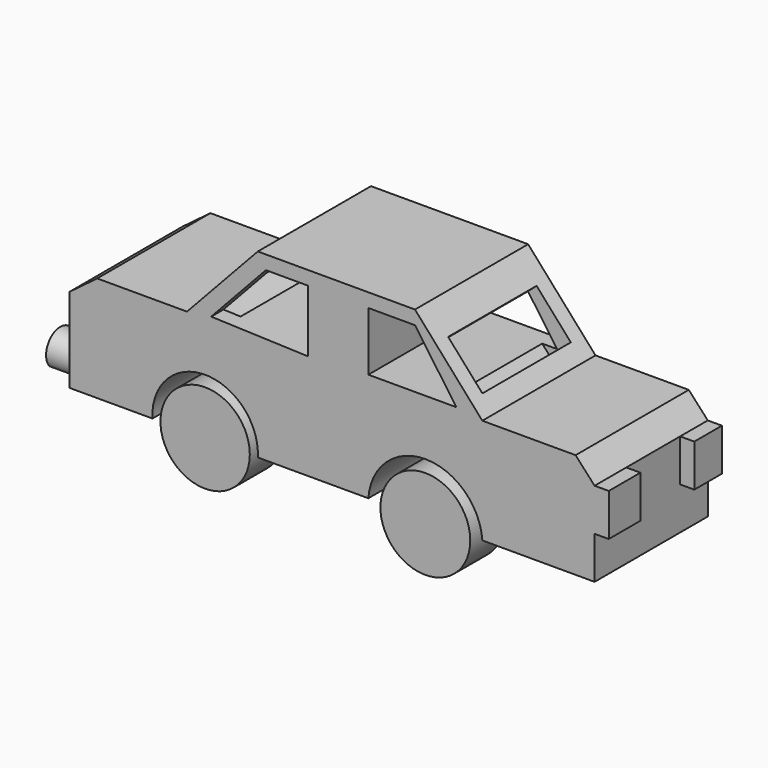
from build123d import *

# Parameters (mm, degrees)
F1_DEPTH  = 25.4
F2_R      = 8.022666145
F3_DEPTH  = 7.62
F2_R_2    = 8.0655138607
F4_R      = 7.7696882193
F5_DEPTH  = 7.62
F4_R_2    = 7.940066568
F6_R      = 2.0287079895
F7_DEPTH  = 12.7
F8_R      = 2.5547140385
F9_DEPTH  = 12.7
F10_W     = 6.2023252249
F10_H     = 7.597848773
F10_W_2   = 7.1031398416
F11_DEPTH = 2.54
F13_DEPTH = 25.4
F14_W     = 19.8474398348
F14_H     = 9.2695616186
F15_DEPTH = 5.08
F16_W     = 20.157556748
F16_H     = 11.4448424429
F17_DEPTH = 5.08
F19_DEPTH = 6.35


with BuildPart() as f1:
    # F0 (on Front) → F1 (new body)
    with BuildSketch(Plane.XZ):
        with BuildLine():
            ThreePointArc((-18.9170930535, 0), (-9.4585465267, 10.0004262087), (0, 0))
            Line((0, 0), (19.8474433273, 0))
            ThreePointArc((19.8474433273, 0), (30.0812805071, 9.5297813415), (40.315117687, 0))
            Line((40.315117687, 0), (60.4726709425, 0))
            Line((60.4726709425, 0), (60.4726709425, 15.195697546))
            Line((60.4726709425, 15.195697546), (57.0613928139, 18.9170930535))
            Line((57.0613928139, 18.9170930535), (40.315117687, 18.9170930535))
            Line((40.315117687, 18.9170930535), (28.2205808908, 32.5622074306))
            Line((28.2205808908, 32.5622074306), (0, 32.5622074306))
            Line((0, 32.5622074306), (-12.7147668973, 18.9170930535))
            Line((-12.7147668973, 18.9170930535), (-28.8408137858, 18.9170930535))
            Line((-28.8408137858, 18.9170930535), (-33.8026732206, 15.195697546))
            Line((-33.8026732206, 15.195697546), (-33.8026732206, 0))
            Line((-33.8026732206, 0), (-18.9170930535, 0))
        make_face()
    extrude(amount=F1_DEPTH)

    # F10 (on face) → F11 (join)
    with BuildSketch(Plane.YZ.offset(60.4726709425)):
        with Locations((-3.1011626124, 11.3967731595)):
            Rectangle(F10_W, F10_H)
        with Locations((-21.8484300792, 11.3967731595)):
            Rectangle(F10_W_2, F10_H)
    extrude(amount=F11_DEPTH)

    # F12 (on face) → F13 (cut)
    with BuildSketch(Plane.XZ.offset(25.4)):
        Polygon((19.8474414647, 19.5373259485), (35.6633737683, 19.5373259485), (28.2205808908, 30.0812795758), (19.8474414647, 30.0812795758), align=None)
        Polygon((1.4519082894, 30.0812795758), (-8.3731403574, 19.5373259485), (8.9933732525, 18.9170930535), (8.9933732525, 30.0812795758), align=None)
    extrude(amount=-F13_DEPTH, mode=Mode.SUBTRACT)

    # F14 (on face) → F15 (cut)
    with BuildSketch(Plane(origin=(31.9675383997, 0, 28.3348720116), x_dir=(0, 1, 0), z_dir=(0.7483468413, 0, 0.6633076248))):
        with Locations((-12.7147686435, -4.6347808093)):
            Rectangle(F14_W, F14_H)
    extrude(amount=-F15_DEPTH, mode=Mode.SUBTRACT)

    # F16 (on face) → F17 (cut)
    with BuildSketch(Plane(origin=(-16.2405923707, 0, 15.1332807156), x_dir=(0, -1, 0), z_dir=(-0.7316079273, 0, 0.6817256345))):
        with Locations((12.5597101869, 14.2854014412)):
            Rectangle(F16_W, F16_H)
    extrude(amount=-F17_DEPTH, mode=Mode.SUBTRACT)

    # F18 (on face) → F19 (join)
    with BuildSketch(Plane(origin=(-33.8026732206, 0, 0), x_dir=(0, -1, 0), z_dir=(-1, 0, 0))):
        with BuildLine():
            ThreePointArc((22.0182556659, 0), (19.5373259485, 5.2123611179), (17.0563962311, 0))
            Line((17.0563962311, 0), (22.0182556659, 0))
        make_face()
        with BuildLine():
            Line((3.4112804569, 0), (8.6832558736, 0))
            ThreePointArc((8.6832558736, 0), (6.0472681653, 5.2985844911), (3.4112804569, 0))
        make_face()
    extrude(amount=F19_DEPTH)


with BuildPart() as f3:
    # F2 (on face) → F3 (new body)
    with BuildSketch(Plane.XZ.offset(25.4)):
        with Locations((-9.4585465267, 0)):
            Circle(F2_R)
    extrude(amount=-F3_DEPTH)


with BuildPart() as f3b:
    # F2 (on face) → F3, piece 2 (new body)
    with BuildSketch(Plane.XZ.offset(25.4)):
        with Locations((30.0812805071, -0.7300634982)):
            Circle(F2_R_2)
    extrude(amount=-F3_DEPTH)


with BuildPart() as f5:
    # F4 (on face) → F5 (new body)
    with BuildSketch(Plane(origin=(0, 0, 0), x_dir=(-1, 0, 0), z_dir=(0, 1, 0))):
        with Locations((-30.0812805071, -0.7300634982)):
            Circle(F4_R)
    extrude(amount=-F5_DEPTH)


with BuildPart() as f5b:
    # F4 (on face) → F5, piece 2 (new body)
    with BuildSketch(Plane(origin=(0, 0, 0), x_dir=(-1, 0, 0), z_dir=(0, 1, 0))):
        with Locations((9.4585465267, 0.5271986282)):
            Circle(F4_R_2)
    extrude(amount=-F5_DEPTH)


with BuildPart() as f7:
    # F6 (on face) → F7 (new body)
    with BuildSketch(Plane.XZ.offset(7.62)):
        with Locations((30.0812805071, -0.7300634982)):
            Circle(F6_R)
    extrude(amount=F7_DEPTH)


with BuildPart() as f9:
    # F8 (on face) → F9 (new body)
    with BuildSketch(Plane.XZ.offset(7.62)):
        with Locations((-9.4585465267, 0.5271986282)):
            Circle(F8_R)
    extrude(amount=F9_DEPTH)


solid = Compound([f1.part, f3.part, f3b.part, f5.part, f5b.part, f7.part, f9.part])
